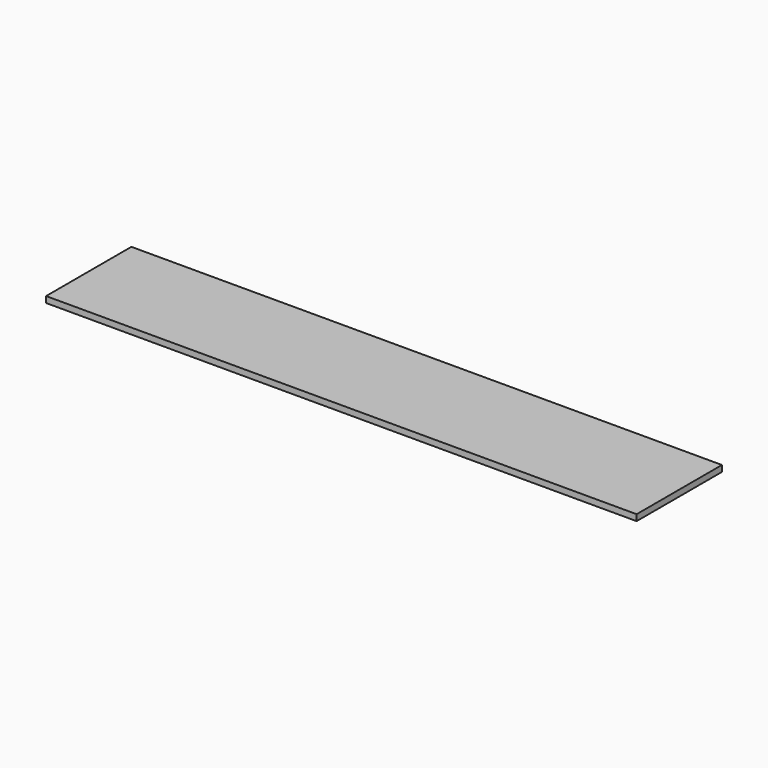
from build123d import *

# Parameters (mm, degrees)
SKETCH001_W   = 1828.8
SKETCH001_H   = 330.2
EXTRUDE_DEPTH = 19.05


with BuildPart() as part:
    # Sketch001 → Extrude (new body)
    with BuildSketch(Plane.XY):
        with Locations((914.4, 165.1)):
            Rectangle(SKETCH001_W, SKETCH001_H)
    extrude(amount=EXTRUDE_DEPTH)


solid = part.part
